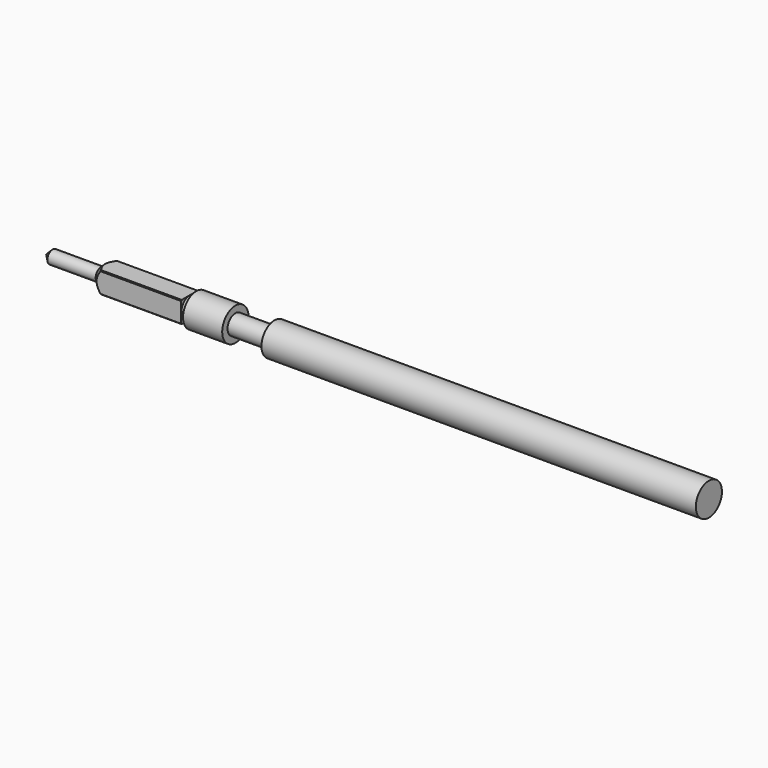
from build123d import *

# Parameters (mm, degrees)
F2_R     = 0.994753
F3_DEPTH = 5.501


with BuildPart() as f1:
    # F0 (on Front) → F1 (revolve)
    with BuildSketch(Plane.XZ):
        Polygon((-25.386839, 0), (0, 0), (0, 0.625), (-16.636839, 0.625), (-16.636839, 0.375), (-18.136839, 0.375), (-18.136839, 0.63), (-19.636839, 0.63), (-19.636839, 0.4), (-19.886839, 0.4), (-19.886839, 0.56), (-22.976839, 0.56), (-23.286839, 0.25), (-25.136839, 0.25), align=None)
    revolve(axis=Axis((-12.69342, 0, 0), (-1, 0, 0)))

    # F2 (on face) → F3 (cut, through all)
    with BuildSketch(Plane.YZ.offset(-19.886839)):
        Circle(F2_R)
        Polygon((-0.41, 0.41), (0, 0.41), (0.41, 0.41), (0.41, 0), (0.41, -0.41), (0, -0.41), (-0.41, -0.41), (-0.41, 0), align=None, mode=Mode.SUBTRACT)
    extrude(amount=-F3_DEPTH, mode=Mode.SUBTRACT)


solid = f1.part
